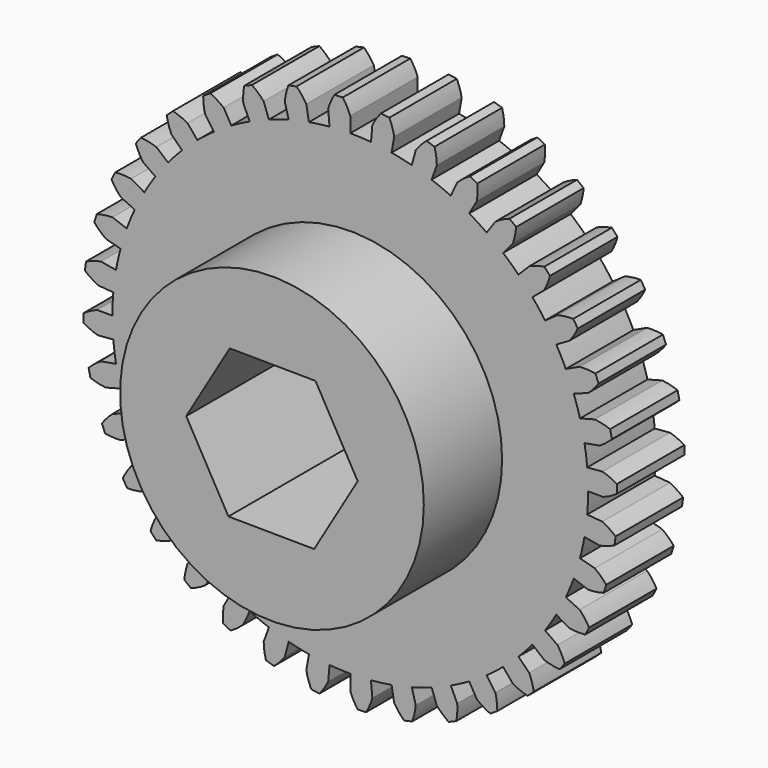
from build123d import *

# Parameters (mm, degrees)
F1_DEPTH = 6.35
F2_R     = 11.43
F3_DEPTH = 7.366
F5_DEPTH = 25.4


with BuildPart() as f1:
    # F0 (on Front) → F1 (new body)
    with BuildSketch(Plane.XZ):
        with BuildLine():
            Line((-4.633929, 17.294058), (-4.633157, 17.291178))
            ThreePointArc((-4.633157, 17.291178), (-5.382978, 17.072625), (-6.122552, 16.821573))
            Line((-6.122552, 16.821573), (-6.123572, 16.824375))
            Line((-6.123572, 16.824375), (-6.515484, 17.901144))
            ThreePointArc((-6.515484, 17.901144), (-6.933193, 18.324493), (-7.40041, 18.692479))
            Line((-7.40041, 18.692479), (-7.984699, 18.450459))
            ThreePointArc((-7.984699, 18.450459), (-8.054865, 17.859881), (-8.050878, 17.265163))
            Line((-8.050878, 17.265163), (-7.566611, 16.226649))
            Line((-7.566611, 16.226649), (-7.565351, 16.223947))
            ThreePointArc((-7.565351, 16.223947), (-8.265829, 15.878509), (-8.950572, 15.502846))
            Line((-8.950572, 15.502846), (-8.952063, 15.505428))
            Line((-8.952063, 15.505428), (-9.525, 16.497784))
            ThreePointArc((-9.525, 16.497784), (-10.009877, 16.842166), (-10.533896, 17.123431))
            Line((-10.533896, 17.123431), (-11.067282, 16.783626))
            ThreePointArc((-11.067282, 16.783626), (-11.033829, 16.189837), (-10.926631, 15.604846))
            Line((-10.926631, 15.604846), (-10.269385, 14.666201))
            Line((-10.269385, 14.666201), (-10.267675, 14.663759))
            ThreePointArc((-10.267675, 14.663759), (-10.897526, 14.201933), (-11.506634, 13.713072))
            Line((-11.506634, 13.713072), (-11.50855, 13.715356))
            Line((-11.50855, 13.715356), (-12.245104, 14.593147))
            ThreePointArc((-12.245104, 14.593147), (-12.782416, 14.848099), (-13.347315, 15.034095))
            Line((-13.347315, 15.034095), (-13.813591, 14.606832))
            ThreePointArc((-13.813591, 14.606832), (-13.677536, 14.027872), (-13.470384, 13.470384))
            Line((-13.470384, 13.470384), (-12.660129, 12.660129))
            Line((-12.660129, 12.660129), (-12.658021, 12.658021))
            ThreePointArc((-12.658021, 12.658021), (-13.198108, 12.093838), (-13.713072, 11.506634))
            Line((-13.713072, 11.506634), (-13.715356, 11.50855))
            Line((-13.715356, 11.50855), (-14.593147, 12.245104))
            ThreePointArc((-14.593147, 12.245104), (-15.166568, 12.402879), (-15.755182, 12.487957))
            Line((-15.755182, 12.487957), (-16.140181, 11.986216))
            ThreePointArc((-16.140181, 11.986216), (-15.905658, 11.439678), (-15.604846, 10.926631))
            Line((-15.604846, 10.926631), (-14.663759, 10.267675))
            ThreePointArc((-14.663759, 10.267675), (-15.097672, 9.618278), (-15.502846, 8.950572))
            Line((-15.502846, 8.950572), (-16.497784, 9.525))
            ThreePointArc((-16.497784, 9.525), (-17.089891, 9.580805), (-17.684337, 9.562378))
            Line((-17.684337, 9.562378), (-17.97636, 9.001406))
            ThreePointArc((-17.97636, 9.001406), (-17.650495, 8.503895), (-17.265163, 8.050878))
            Line((-17.265163, 8.050878), (-16.226649, 7.566611))
            Line((-16.226649, 7.566611), (-16.223947, 7.565351))
            ThreePointArc((-16.223947, 7.565351), (-16.538501, 6.850471), (-16.821573, 6.122552))
            Line((-16.821573, 6.122552), (-16.824375, 6.123572))
            Line((-16.824375, 6.123572), (-17.901144, 6.515484))
            ThreePointArc((-17.901144, 6.515484), (-18.493947, 6.467623), (-19.076161, 6.346251))
            Line((-19.076161, 6.346251), (-19.266337, 5.743092))
            ThreePointArc((-19.266337, 5.743092), (-18.85903, 5.309726), (-18.400887, 4.930503))
            Line((-18.400887, 4.930503), (-17.294058, 4.633929))
            Line((-17.294058, 4.633929), (-17.291178, 4.633157))
            ThreePointArc((-17.291178, 4.633157), (-17.476816, 3.874517), (-17.629186, 3.108501))
            Line((-17.629186, 3.108501), (-17.632122, 3.109019))
            Line((-17.632122, 3.109019), (-18.760588, 3.307998))
            ThreePointArc((-18.760588, 3.307998), (-19.336073, 3.157925), (-19.888367, 2.937297))
            Line((-19.888367, 2.937297), (-19.970915, 2.310277))
            ThreePointArc((-19.970915, 2.310277), (-19.494543, 1.954223), (-18.977509, 1.660317))
            Line((-18.977509, 1.660317), (-17.835995, 1.560447))
            Line((-17.835995, 1.560447), (-17.833025, 1.560188))
            ThreePointArc((-17.833025, 1.560188), (-17.884107, 0.780837), (-17.901144, 0))
            Line((-17.901144, 0), (-17.904126, 0))
            Line((-17.904126, 0), (-19.05, 0))
            ThreePointArc((-19.05, 0), (-19.590682, -0.247725), (-20.096274, -0.560906))
            Line((-20.096274, -0.560906), (-20.068688, -1.192734))
            ThreePointArc((-20.068688, -1.192734), (-19.537725, -1.460658), (-18.977509, -1.660317))
            Line((-18.977509, -1.660317), (-17.835995, -1.560447))
            Line((-17.835995, -1.560447), (-17.833025, -1.560188))
            ThreePointArc((-17.833025, -1.560188), (-17.747998, -2.336568), (-17.629186, -3.108501))
            Line((-17.629186, -3.108501), (-17.632122, -3.109019))
            Line((-17.632122, -3.109019), (-18.760588, -3.307998))
            ThreePointArc((-18.760588, -3.307998), (-19.250039, -3.645848), (-19.693566, -4.042066))
            Line((-19.693566, -4.042066), (-19.556683, -4.659505))
            ThreePointArc((-19.556683, -4.659505), (-18.987262, -4.831158), (-18.400887, -4.930503))
            Line((-18.400887, -4.930503), (-17.294058, -4.633929))
            Line((-17.294058, -4.633929), (-17.291178, -4.633157))
            ThreePointArc((-17.291178, -4.633157), (-17.072625, -5.382978), (-16.821573, -6.122552))
            Line((-16.821573, -6.122552), (-16.824375, -6.123572))
            Line((-16.824375, -6.123572), (-17.901144, -6.515484))
            ThreePointArc((-17.901144, -6.515484), (-18.324493, -6.933193), (-18.692479, -7.40041))
            Line((-18.692479, -7.40041), (-18.450459, -7.984699))
            ThreePointArc((-18.450459, -7.984699), (-17.859881, -8.054865), (-17.265163, -8.050878))
            Line((-17.265163, -8.050878), (-16.226649, -7.566611))
            Line((-16.226649, -7.566611), (-16.223947, -7.565351))
            ThreePointArc((-16.223947, -7.565351), (-15.878509, -8.265829), (-15.502846, -8.950572))
            Line((-15.502846, -8.950572), (-15.505428, -8.952063))
            Line((-15.505428, -8.952063), (-16.497784, -9.525))
            ThreePointArc((-16.497784, -9.525), (-16.842166, -10.009877), (-17.123431, -10.533896))
            Line((-17.123431, -10.533896), (-16.783626, -11.067282))
            ThreePointArc((-16.783626, -11.067282), (-16.189837, -11.033829), (-15.604846, -10.926631))
            Line((-15.604846, -10.926631), (-14.666201, -10.269385))
            Line((-14.666201, -10.269385), (-14.663759, -10.267675))
            ThreePointArc((-14.663759, -10.267675), (-14.201933, -10.897526), (-13.713072, -11.506634))
            Line((-13.713072, -11.506634), (-13.715356, -11.50855))
            Line((-13.715356, -11.50855), (-14.593147, -12.245104))
            ThreePointArc((-14.593147, -12.245104), (-14.848099, -12.782416), (-15.034095, -13.347315))
            Line((-15.034095, -13.347315), (-14.606832, -13.813591))
            ThreePointArc((-14.606832, -13.813591), (-14.027872, -13.677536), (-13.470384, -13.470384))
            Line((-13.470384, -13.470384), (-12.660129, -12.660129))
            Line((-12.660129, -12.660129), (-12.658021, -12.658021))
            ThreePointArc((-12.658021, -12.658021), (-12.093838, -13.198108), (-11.506634, -13.713072))
            Line((-11.506634, -13.713072), (-11.50855, -13.715356))
            Line((-11.50855, -13.715356), (-12.245104, -14.593147))
            ThreePointArc((-12.245104, -14.593147), (-12.402879, -15.166568), (-12.487957, -15.755182))
            Line((-12.487957, -15.755182), (-11.986216, -16.140181))
            ThreePointArc((-11.986216, -16.140181), (-11.439678, -15.905658), (-10.926631, -15.604846))
            Line((-10.926631, -15.604846), (-10.267675, -14.663759))
            ThreePointArc((-10.267675, -14.663759), (-9.618278, -15.097672), (-8.950572, -15.502846))
            Line((-8.950572, -15.502846), (-9.525, -16.497784))
            ThreePointArc((-9.525, -16.497784), (-9.580805, -17.089891), (-9.562378, -17.684337))
            Line((-9.562378, -17.684337), (-9.001406, -17.97636))
            ThreePointArc((-9.001406, -17.97636), (-8.503895, -17.650495), (-8.050878, -17.265163))
            Line((-8.050878, -17.265163), (-7.566611, -16.226649))
            Line((-7.566611, -16.226649), (-7.565351, -16.223947))
            ThreePointArc((-7.565351, -16.223947), (-6.850471, -16.538501), (-6.122552, -16.821573))
            Line((-6.122552, -16.821573), (-6.123572, -16.824375))
            Line((-6.123572, -16.824375), (-6.515484, -17.901144))
            ThreePointArc((-6.515484, -17.901144), (-6.467623, -18.493947), (-6.346251, -19.076161))
            Line((-6.346251, -19.076161), (-5.743092, -19.266337))
            ThreePointArc((-5.743092, -19.266337), (-5.309726, -18.85903), (-4.930503, -18.400887))
            Line((-4.930503, -18.400887), (-4.633929, -17.294058))
            Line((-4.633929, -17.294058), (-4.633157, -17.291178))
            ThreePointArc((-4.633157, -17.291178), (-3.874517, -17.476816), (-3.108501, -17.629186))
            Line((-3.108501, -17.629186), (-3.109019, -17.632122))
            Line((-3.109019, -17.632122), (-3.307998, -18.760588))
            ThreePointArc((-3.307998, -18.760588), (-3.157925, -19.336073), (-2.937297, -19.888367))
            Line((-2.937297, -19.888367), (-2.310277, -19.970915))
            ThreePointArc((-2.310277, -19.970915), (-1.954223, -19.494543), (-1.660317, -18.977509))
            Line((-1.660317, -18.977509), (-1.560447, -17.835995))
            Line((-1.560447, -17.835995), (-1.560188, -17.833025))
            ThreePointArc((-1.560188, -17.833025), (-0.780837, -17.884107), (0, -17.901144))
            Line((0, -17.901144), (0, -17.904126))
            Line((0, -17.904126), (0, -19.05))
            ThreePointArc((0, -19.05), (0.247725, -19.590682), (0.560906, -20.096274))
            Line((0.560906, -20.096274), (1.192734, -20.068688))
            ThreePointArc((1.192734, -20.068688), (1.460658, -19.537725), (1.660317, -18.977509))
            Line((1.660317, -18.977509), (1.560447, -17.835995))
            Line((1.560447, -17.835995), (1.560188, -17.833025))
            ThreePointArc((1.560188, -17.833025), (2.336568, -17.747998), (3.108501, -17.629186))
            Line((3.108501, -17.629186), (3.109019, -17.632122))
            Line((3.109019, -17.632122), (3.307998, -18.760588))
            ThreePointArc((3.307998, -18.760588), (3.645848, -19.250039), (4.042066, -19.693566))
            Line((4.042066, -19.693566), (4.659505, -19.556683))
            ThreePointArc((4.659505, -19.556683), (4.831158, -18.987262), (4.930503, -18.400887))
            Line((4.930503, -18.400887), (4.633929, -17.294058))
            Line((4.633929, -17.294058), (4.633157, -17.291178))
            ThreePointArc((4.633157, -17.291178), (5.382978, -17.072625), (6.122552, -16.821573))
            Line((6.122552, -16.821573), (6.123572, -16.824375))
            Line((6.123572, -16.824375), (6.515484, -17.901144))
            ThreePointArc((6.515484, -17.901144), (6.933193, -18.324493), (7.40041, -18.692479))
            Line((7.40041, -18.692479), (7.984699, -18.450459))
            ThreePointArc((7.984699, -18.450459), (8.054865, -17.859881), (8.050878, -17.265163))
            Line((8.050878, -17.265163), (7.566611, -16.226649))
            Line((7.566611, -16.226649), (7.565351, -16.223947))
            ThreePointArc((7.565351, -16.223947), (8.265829, -15.878509), (8.950572, -15.502846))
            Line((8.950572, -15.502846), (8.952063, -15.505428))
            Line((8.952063, -15.505428), (9.525, -16.497784))
            ThreePointArc((9.525, -16.497784), (10.009877, -16.842166), (10.533896, -17.123431))
            Line((10.533896, -17.123431), (11.067282, -16.783626))
            ThreePointArc((11.067282, -16.783626), (11.033829, -16.189837), (10.926631, -15.604846))
            Line((10.926631, -15.604846), (10.269385, -14.666201))
            Line((10.269385, -14.666201), (10.267675, -14.663759))
            ThreePointArc((10.267675, -14.663759), (10.897526, -14.201933), (11.506634, -13.713072))
            Line((11.506634, -13.713072), (11.50855, -13.715356))
            Line((11.50855, -13.715356), (12.245104, -14.593147))
            ThreePointArc((12.245104, -14.593147), (12.782416, -14.848099), (13.347315, -15.034095))
            Line((13.347315, -15.034095), (13.813591, -14.606832))
            ThreePointArc((13.813591, -14.606832), (13.677536, -14.027872), (13.470384, -13.470384))
            Line((13.470384, -13.470384), (12.660129, -12.660129))
            Line((12.660129, -12.660129), (12.658021, -12.658021))
            ThreePointArc((12.658021, -12.658021), (13.198108, -12.093838), (13.713072, -11.506634))
            Line((13.713072, -11.506634), (13.715356, -11.50855))
            Line((13.715356, -11.50855), (14.593147, -12.245104))
            ThreePointArc((14.593147, -12.245104), (15.166568, -12.402879), (15.755182, -12.487957))
            Line((15.755182, -12.487957), (16.140181, -11.986216))
            ThreePointArc((16.140181, -11.986216), (15.905658, -11.439678), (15.604846, -10.926631))
            Line((15.604846, -10.926631), (14.663759, -10.267675))
            ThreePointArc((14.663759, -10.267675), (15.097672, -9.618278), (15.502846, -8.950572))
            Line((15.502846, -8.950572), (16.497784, -9.525))
            ThreePointArc((16.497784, -9.525), (17.089891, -9.580805), (17.684337, -9.562378))
            Line((17.684337, -9.562378), (17.97636, -9.001406))
            ThreePointArc((17.97636, -9.001406), (17.650495, -8.503895), (17.265163, -8.050878))
            Line((17.265163, -8.050878), (16.226649, -7.566611))
            Line((16.226649, -7.566611), (16.223947, -7.565351))
            ThreePointArc((16.223947, -7.565351), (16.538501, -6.850471), (16.821573, -6.122552))
            Line((16.821573, -6.122552), (16.824375, -6.123572))
            Line((16.824375, -6.123572), (17.901144, -6.515484))
            ThreePointArc((17.901144, -6.515484), (18.493947, -6.467623), (19.076161, -6.346251))
            Line((19.076161, -6.346251), (19.266337, -5.743092))
            ThreePointArc((19.266337, -5.743092), (18.85903, -5.309726), (18.400887, -4.930503))
            Line((18.400887, -4.930503), (17.291178, -4.633157))
            ThreePointArc((17.291178, -4.633157), (17.476816, -3.874517), (17.629186, -3.108501))
            Line((17.629186, -3.108501), (18.760588, -3.307998))
            ThreePointArc((18.760588, -3.307998), (19.336073, -3.157925), (19.888367, -2.937297))
            Line((19.888367, -2.937297), (19.970915, -2.310277))
            ThreePointArc((19.970915, -2.310277), (19.494543, -1.954223), (18.977509, -1.660317))
            Line((18.977509, -1.660317), (17.835995, -1.560447))
            Line((17.835995, -1.560447), (17.833025, -1.560188))
            ThreePointArc((17.833025, -1.560188), (17.884107, -0.780837), (17.901144, 0))
            Line((17.901144, 0), (17.904126, 0))
            Line((17.904126, 0), (19.05, 0))
            ThreePointArc((19.05, 0), (19.590682, 0.247725), (20.096274, 0.560906))
            Line((20.096274, 0.560906), (20.068688, 1.192734))
            ThreePointArc((20.068688, 1.192734), (19.537725, 1.460658), (18.977509, 1.660317))
            Line((18.977509, 1.660317), (17.835995, 1.560447))
            Line((17.835995, 1.560447), (17.833025, 1.560188))
            ThreePointArc((17.833025, 1.560188), (17.747998, 2.336568), (17.629186, 3.108501))
            Line((17.629186, 3.108501), (17.632122, 3.109019))
            Line((17.632122, 3.109019), (18.760588, 3.307998))
            ThreePointArc((18.760588, 3.307998), (19.250039, 3.645848), (19.693566, 4.042066))
            Line((19.693566, 4.042066), (19.556683, 4.659505))
            ThreePointArc((19.556683, 4.659505), (18.987262, 4.831158), (18.400887, 4.930503))
            Line((18.400887, 4.930503), (17.291178, 4.633157))
            ThreePointArc((17.291178, 4.633157), (17.072625, 5.382978), (16.821573, 6.122552))
            Line((16.821573, 6.122552), (17.901144, 6.515484))
            ThreePointArc((17.901144, 6.515484), (18.324493, 6.933193), (18.692479, 7.40041))
            Line((18.692479, 7.40041), (18.450459, 7.984699))
            ThreePointArc((18.450459, 7.984699), (17.859881, 8.054865), (17.265163, 8.050878))
            Line((17.265163, 8.050878), (16.226649, 7.566611))
            Line((16.226649, 7.566611), (16.223947, 7.565351))
            ThreePointArc((16.223947, 7.565351), (15.878509, 8.265829), (15.502846, 8.950572))
            Line((15.502846, 8.950572), (15.505428, 8.952063))
            Line((15.505428, 8.952063), (16.497784, 9.525))
            ThreePointArc((16.497784, 9.525), (16.842166, 10.009877), (17.123431, 10.533896))
            Line((17.123431, 10.533896), (16.783626, 11.067282))
            ThreePointArc((16.783626, 11.067282), (16.189837, 11.033829), (15.604846, 10.926631))
            Line((15.604846, 10.926631), (14.666201, 10.269385))
            Line((14.666201, 10.269385), (14.663759, 10.267675))
            ThreePointArc((14.663759, 10.267675), (14.201933, 10.897526), (13.713072, 11.506634))
            Line((13.713072, 11.506634), (13.715356, 11.50855))
            Line((13.715356, 11.50855), (14.593147, 12.245104))
            ThreePointArc((14.593147, 12.245104), (14.848099, 12.782416), (15.034095, 13.347315))
            Line((15.034095, 13.347315), (14.606832, 13.813591))
            ThreePointArc((14.606832, 13.813591), (14.027872, 13.677536), (13.470384, 13.470384))
            Line((13.470384, 13.470384), (12.658021, 12.658021))
            ThreePointArc((12.658021, 12.658021), (12.093838, 13.198108), (11.506634, 13.713072))
            Line((11.506634, 13.713072), (12.245104, 14.593147))
            ThreePointArc((12.245104, 14.593147), (12.402879, 15.166568), (12.487957, 15.755182))
            Line((12.487957, 15.755182), (11.986216, 16.140181))
            ThreePointArc((11.986216, 16.140181), (11.439678, 15.905658), (10.926631, 15.604846))
            Line((10.926631, 15.604846), (10.269385, 14.666201))
            Line((10.269385, 14.666201), (10.267675, 14.663759))
            ThreePointArc((10.267675, 14.663759), (9.618278, 15.097672), (8.950572, 15.502846))
            Line((8.950572, 15.502846), (8.952063, 15.505428))
            Line((8.952063, 15.505428), (9.525, 16.497784))
            ThreePointArc((9.525, 16.497784), (9.580805, 17.089891), (9.562378, 17.684337))
            Line((9.562378, 17.684337), (9.001406, 17.97636))
            ThreePointArc((9.001406, 17.97636), (8.503895, 17.650495), (8.050878, 17.265163))
            Line((8.050878, 17.265163), (7.566611, 16.226649))
            Line((7.566611, 16.226649), (7.565351, 16.223947))
            ThreePointArc((7.565351, 16.223947), (6.850471, 16.538501), (6.122552, 16.821573))
            Line((6.122552, 16.821573), (6.123572, 16.824375))
            Line((6.123572, 16.824375), (6.515484, 17.901144))
            ThreePointArc((6.515484, 17.901144), (6.467623, 18.493947), (6.346251, 19.076161))
            Line((6.346251, 19.076161), (5.743092, 19.266337))
            ThreePointArc((5.743092, 19.266337), (5.309726, 18.85903), (4.930503, 18.400887))
            Line((4.930503, 18.400887), (4.633929, 17.294058))
            Line((4.633929, 17.294058), (4.633157, 17.291178))
            ThreePointArc((4.633157, 17.291178), (3.874517, 17.476816), (3.108501, 17.629186))
            Line((3.108501, 17.629186), (3.109019, 17.632122))
            Line((3.109019, 17.632122), (3.307998, 18.760588))
            ThreePointArc((3.307998, 18.760588), (3.157925, 19.336073), (2.937297, 19.888367))
            Line((2.937297, 19.888367), (2.310277, 19.970915))
            ThreePointArc((2.310277, 19.970915), (1.954223, 19.494543), (1.660317, 18.977509))
            Line((1.660317, 18.977509), (1.560447, 17.835995))
            ThreePointArc((1.560447, 17.835995), (0.780967, 17.887085), (0, 17.904126))
            Line((0, 17.904126), (0, 19.05))
            ThreePointArc((0, 19.05), (-0.247725, 19.590682), (-0.560906, 20.096274))
            Line((-0.560906, 20.096274), (-1.192734, 20.068688))
            ThreePointArc((-1.192734, 20.068688), (-1.460658, 19.537725), (-1.660317, 18.977509))
            Line((-1.660317, 18.977509), (-1.560447, 17.835995))
            ThreePointArc((-1.560447, 17.835995), (-2.336957, 17.750954), (-3.109019, 17.632122))
            Line((-3.109019, 17.632122), (-3.307998, 18.760588))
            ThreePointArc((-3.307998, 18.760588), (-3.645848, 19.250039), (-4.042066, 19.693566))
            Line((-4.042066, 19.693566), (-4.659505, 19.556683))
            ThreePointArc((-4.659505, 19.556683), (-4.831158, 18.987262), (-4.930503, 18.400887))
            Line((-4.930503, 18.400887), (-4.633929, 17.294058))
        make_face()
    extrude(amount=F1_DEPTH)

    # F2 (on face) → F3 (join)
    with BuildSketch(Plane.XZ.offset(6.35)):
        Circle(F2_R)
    extrude(amount=F3_DEPTH)

    # F4 (on face) → F5 (cut)
    with BuildSketch(Plane.XZ.offset(13.716)):
        Polygon((3.175133, -5.617193), (6.452198, -0.058851), (3.277065, 5.558342), (-3.175133, 5.617193), (-6.452198, 0.058851), (-3.277065, -5.558342), align=None)
    extrude(amount=-F5_DEPTH, mode=Mode.SUBTRACT)


solid = f1.part
